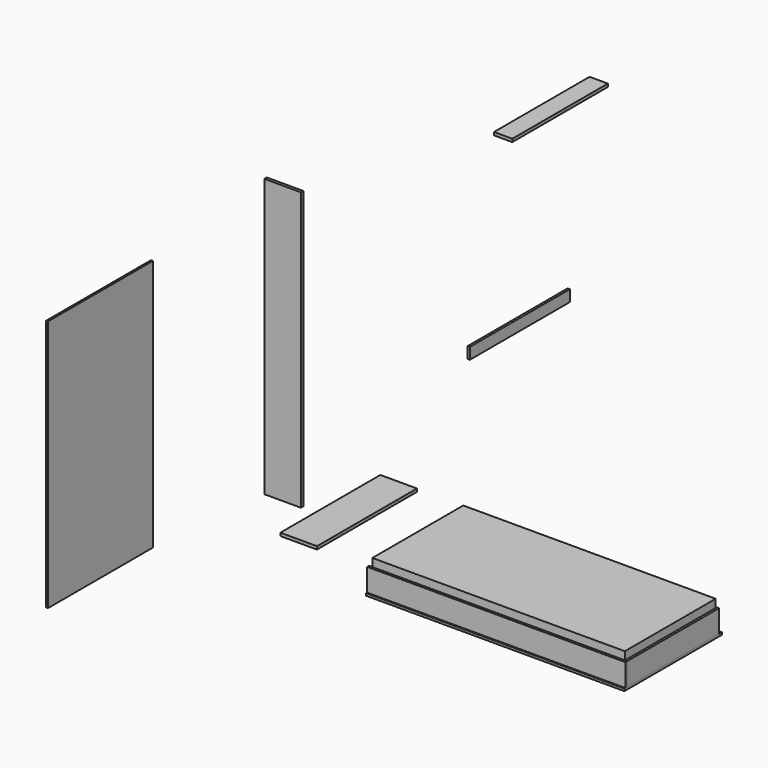
from build123d import *

# Parameters (mm, degrees)
F5_W      = 2000
F5_H      = 900
F6_DEPTH  = 240
F7_W      = 2046
F7_H      = 966
F8_DEPTH  = 18
F10_W     = 2046
F10_H     = 180
F11_DEPTH = 18
F12_W     = 910
F12_H     = 180
F13_DEPTH = 18
F14_W     = 290
F14_H     = 2200
F15_DEPTH = 24
F16_W     = 290
F16_H     = 990
F17_DEPTH = 24
F18_W     = 990
F18_H     = 90
F19_DEPTH = 18
F20_W     = 946
F20_H     = 24
F21_DEPTH = 145
F22_W     = 1038
F22_H     = 2000
F23_DEPTH = 15


with BuildPart() as f6:
    # F5 (on Top) → F6 (new body)
    with BuildSketch(Plane.XY):
        with Locations((955.7780921459, 418.0782295763)):
            Rectangle(F5_W, F5_H)
    extrude(amount=F6_DEPTH)


with BuildPart() as f8:
    # F7 (on Top) → F8 (new body)
    with BuildSketch(Plane.XY):
        with Locations((955.7780921459, 418.0782295763)):
            Rectangle(F7_W, F7_H)
    extrude(amount=-F8_DEPTH)


with BuildPart() as f11:
    # F10 (on offset) → F11 (new body)
    with BuildSketch(Plane.XZ.offset(54.9217704237)):
        with Locations((955.7780921459, 90)):
            Rectangle(F10_W, F10_H)
    extrude(amount=-F11_DEPTH)


with BuildPart() as f13:
    # F12 (on face) → F13 (new body)
    with BuildSketch(Plane.YZ.offset(1978.7780921459)):
        with Locations((418.0782295763, 90)):
            Rectangle(F12_W, F12_H)
    extrude(amount=-F13_DEPTH)


with BuildPart() as f15:
    # F14 (on Front) → F15 (new body)
    with BuildSketch(Plane.XZ):
        with Locations((-761.657433033, 1500.679255718)):
            Rectangle(F14_W, F14_H)
    extrude(amount=F15_DEPTH)


with BuildPart() as f17:
    # F16 (on Top) → F17 (new body)
    with BuildSketch(Plane.XY):
        with Locations((-814.5700612068, 696.2062922447)):
            Rectangle(F16_W, F16_H)
    extrude(amount=F17_DEPTH)


with BuildPart() as f19:
    # F18 (on Right) → F19 (new body)
    with BuildSketch(Plane.YZ):
        with Locations((1350.8586287498, 1326.2122045411)):
            Rectangle(F18_W, F18_H)
    extrude(amount=F19_DEPTH)


with BuildPart() as f21:
    # F20 (on Right) → F21 (new body)
    with BuildSketch(Plane.YZ):
        with Locations((1590.4243588448, 2746.336264422)):
            Rectangle(F20_W, F20_H)
    extrude(amount=F21_DEPTH)


with BuildPart() as f23:
    # F22 (on Right) → F23 (new body)
    with BuildSketch(Plane.YZ):
        with Locations((-2799.5529594421, 2244.9015852496)):
            Rectangle(F22_W, F22_H)
    extrude(amount=F23_DEPTH)


solid = Compound([f6.part, f8.part, f11.part, f13.part, f15.part, f17.part, f19.part, f21.part, f23.part])
